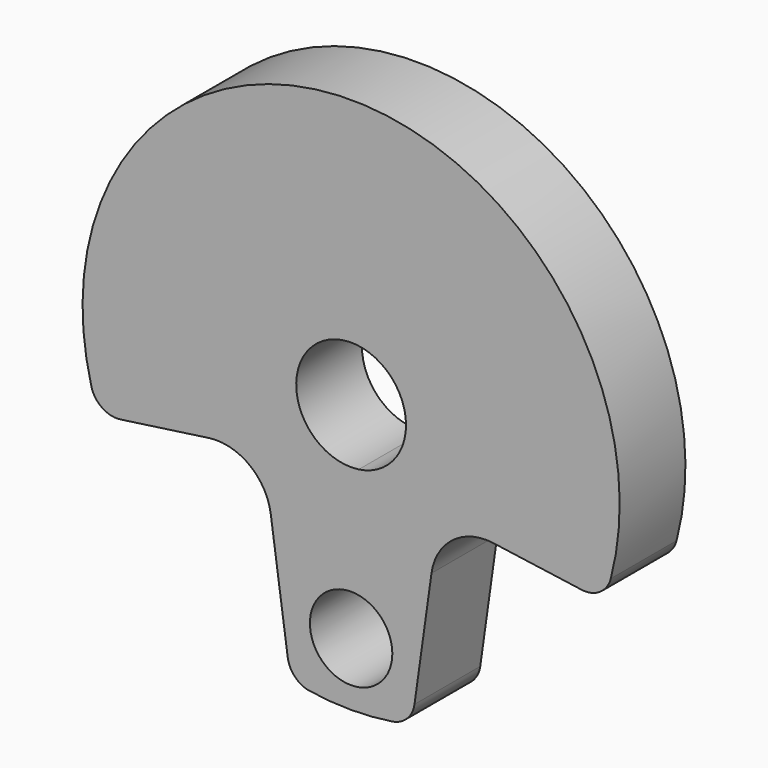
from build123d import *

# Parameters (mm, degrees)
F0_R     = 4.7752
F1_DEPTH = 9.525


with BuildPart() as f1:
    # F0 (on Front) → F1 (new body)
    with BuildSketch(Plane.XZ):
        with BuildLine():
            ThreePointArc((26.713829, -10.179614), (28.825155, -9.699762), (30.085145, -7.938972))
            ThreePointArc((30.085145, -7.938972), (0, 31.115), (-30.085145, -7.938972))
            ThreePointArc((-30.085145, -7.938972), (-28.825155, -9.699762), (-26.713829, -10.179614))
            Line((-26.713829, -10.179614), (-16.483614, -8.741851))
            ThreePointArc((-16.483614, -8.741851), (-11.778339, -9.958717), (-9.311662, -14.146304))
            Line((-9.311662, -14.146304), (-7.342719, -28.156062))
            ThreePointArc((-7.342719, -28.156062), (-6.495815, -29.87083), (-4.793998, -30.743468))
            ThreePointArc((-4.793998, -30.743468), (0, -31.115), (4.793998, -30.743468))
            ThreePointArc((4.793998, -30.743468), (6.495815, -29.87083), (7.342719, -28.156062))
            Line((7.342719, -28.156062), (9.311662, -14.146304))
            ThreePointArc((9.311662, -14.146304), (11.778339, -9.958717), (16.483614, -8.741851))
            Line((16.483614, -8.741851), (26.713829, -10.179614))
        make_face()
        with Locations((0, -23.8252)):
            Circle(F0_R, mode=Mode.SUBTRACT)
        with BuildLine():
            ThreePointArc((0.885517, -6.300779), (-4.801991, 4.174307), (6.3627, 0))
            ThreePointArc((6.3627, 0), (4.801991, -4.174307), (0.885517, -6.300779))
        make_face(mode=Mode.SUBTRACT)
    extrude(amount=F1_DEPTH)


solid = f1.part
